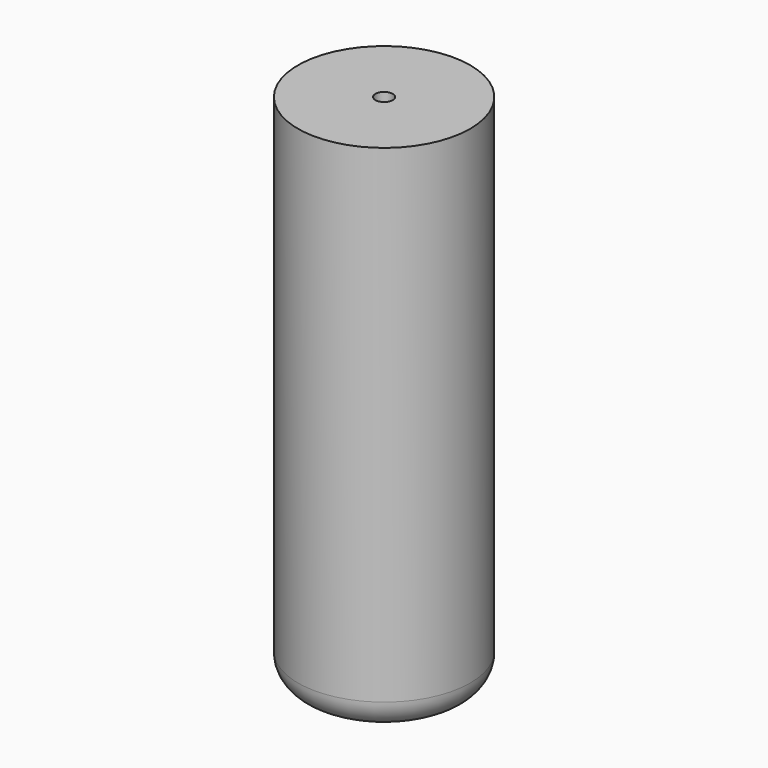
from build123d import *

# Parameters (mm, degrees)
F0_R     = 15
F1_DEPTH = 90
F2_R     = 1.5
F3_DEPTH = 25
F4_R     = 5


with BuildPart() as f1:
    # F0 (on Top) → F1 (new body)
    with BuildSketch(Plane.XY):
        Circle(F0_R)
    extrude(amount=F1_DEPTH)

    # F2 (on face) → F3 (cut)
    with BuildSketch(Plane.XY.offset(90)):
        Circle(F2_R)
    extrude(amount=-F3_DEPTH, mode=Mode.SUBTRACT)

    # F4
    f4_edges = [f1.edges().sort_by_distance(p)[0] for p in [
        (-15, 0, 0),
    ]]
    fillet(f4_edges, radius=F4_R)


solid = f1.part
